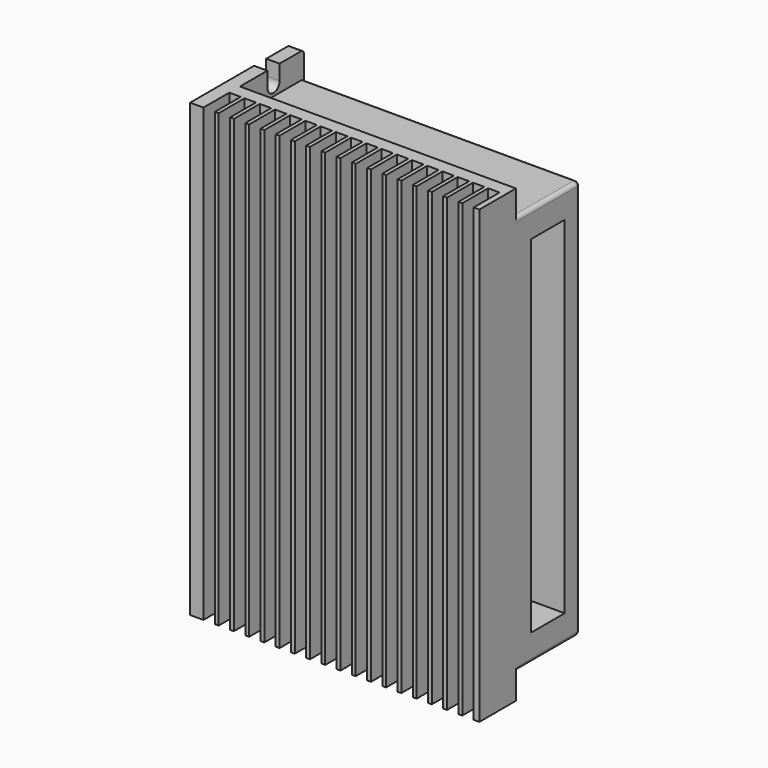
from build123d import *

# Parameters (mm, degrees)
F2_DEPTH = 59.25
F1_W     = 72.5
F1_H     = 21
F3_DEPTH = 52.5
F5_DEPTH = 3.5
F6_W     = 11
F6_H     = 91
F7_DEPTH = 25
F8_R     = 1


with BuildPart() as f2:
    # F1 (on Top) → F2 (new body, symmetric)
    with BuildSketch(Plane.XY):
        Polygon((-34.5, 16.5), (-38, 16.5), (-38, -16.5), (-34.5, -16.5), (-34.5, -8), (-31.5, -8), (-31.5, -16.5), (-30.5, -16.5), (-30.5, -8), (-27.5, -8), (-27.5, -16.5), (-26.5, -16.5), (-26.5, -8), (-23.5, -8), (-23.5, -16.5), (-22.5, -16.5), (-22.5, -8), (-19.5, -8), (-19.5, -16.5), (-18.5, -16.5), (-18.5, -8), (-15.5, -8), (-15.5, -16.5), (-14.5, -16.5), (-14.5, -8), (-11.5, -8), (-11.5, -16.5), (-10.5, -16.5), (-10.5, -8), (-7.5, -8), (-7.5, -16.5), (-6.5, -16.5), (-6.5, -8), (-3.5, -8), (-3.5, -16.5), (-2.5, -16.5), (-2.5, -8), (0.5, -8), (0.5, -16.5), (1.5, -16.5), (1.5, -8), (4.5, -8), (4.5, -16.5), (5.5, -16.5), (5.5, -8), (8.5, -8), (8.5, -16.5), (9.5, -16.5), (9.5, -8), (12.5, -8), (12.5, -16.5), (13.5, -16.5), (13.5, -8), (16.5, -8), (16.5, -16.5), (17.5, -16.5), (17.5, -8), (20.5, -8), (20.5, -16.5), (21.5, -16.5), (21.5, -8), (24.5, -8), (24.5, -16.5), (25.5, -16.5), (25.5, -8), (28.5, -8), (28.5, -16.5), (29.5, -16.5), (29.5, -8), (32.5, -8), (32.5, -16.5), (33.5, -16.5), (33.5, -8), (36.5, -8), (36.5, -16.5), (38, -16.5), (38, -4.5), (-34.5, -4.5), align=None)
    extrude(amount=F2_DEPTH, both=True)

    # F1 (on Top) → F3 (join, symmetric)
    with BuildSketch(Plane.XY):
        with Locations((1.75, 6)):
            Rectangle(F1_W, F1_H)
    extrude(amount=F3_DEPTH, both=True)

    # F4 (on face) → F5 (cut, through all)
    with BuildSketch(Plane(origin=(-38, 0, 0), x_dir=(0, -1, 0), z_dir=(-1, 0, 0))):
        with BuildLine():
            Line((-4.5, 59.25), (-8.5, 59.25))
            Line((-8.5, 59.25), (-8.5, 55.25))
            ThreePointArc((-8.5, 55.25), (-6.5, 53.25), (-4.5, 55.25))
            Line((-4.5, 55.25), (-4.5, 59.25))
        make_face()
        with BuildLine():
            Line((-8.5, -55.25), (-8.5, -59.25))
            Line((-8.5, -59.25), (-4.5, -59.25))
            Line((-4.5, -59.25), (-4.5, -55.25))
            ThreePointArc((-4.5, -55.25), (-6.5, -53.25), (-8.5, -55.25))
        make_face()
    extrude(amount=-F5_DEPTH, mode=Mode.SUBTRACT)

    # F6 (on face) → F7 (cut)
    with BuildSketch(Plane.YZ.offset(38)):
        with Locations((6, 0)):
            Rectangle(F6_W, F6_H)
    extrude(amount=-F7_DEPTH, mode=Mode.SUBTRACT)

    # F8
    f8_edges = [f2.edges().sort_by_distance(p)[0] for p in [
        (38, 6, 52.5),
        (1.75, 16.5, 52.5),
        (38, 16.5, 0),
        (-36.25, 16.5, 59.25),
        (1.75, 16.5, -52.5),
        (38, 6, -52.5),
        (-36.25, 16.5, -59.25),
    ]]
    fillet(f8_edges, radius=F8_R)


solid = f2.part
